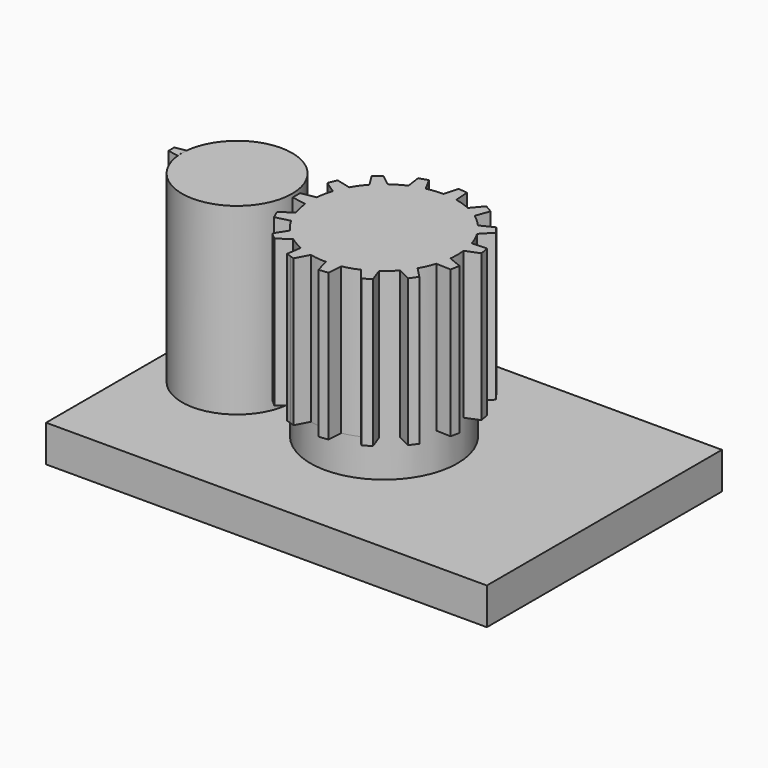
from build123d import *

# Parameters (mm, degrees)
F0_W          = 60
F0_H          = 40
F1_DEPTH      = 5
F2_R          = 7.5
F3_DEPTH      = 25
F3_DEPTH_BACK = 2
F5_R          = 10
F6_DEPTH      = 25
F6_DEPTH_BACK = 2
F9_DEPTH      = 20
F12_DEPTH     = 20


with BuildPart() as f1:
    # F0 (on Top) → F1 (new body)
    with BuildSketch(Plane.XY):
        Rectangle(F0_W, F0_H)
    extrude(amount=F1_DEPTH)


with BuildPart() as f3:
    # F2 (on face) → F3 (new body, two sides)
    with BuildSketch(Plane.XY.offset(5)) as f3_sk:
        with Locations((-20, 0)):
            Circle(F2_R)
    extrude(amount=F3_DEPTH)
    extrude(f3_sk.sketch, amount=-F3_DEPTH_BACK)


with BuildPart() as f1_1:
    add(f1.part)

    # F4: cut F3
    add(f3.part, mode=Mode.SUBTRACT)


with BuildPart() as f6:
    # F5 (on face) → F6 (new body, two sides)
    with BuildSketch(Plane.XY.offset(5)) as f6_sk:
        Circle(F5_R)
    extrude(amount=F6_DEPTH)
    extrude(f6_sk.sketch, amount=-F6_DEPTH_BACK)

    # F11 (on face) → F12 (join)
    with BuildSketch(Plane.XY.offset(30)):
        with BuildLine():
            ThreePointArc((9.937283, -1.118217), (9.984308, -0.559987), (10, 0))
            ThreePointArc((10, 0), (9.984308, 0.559987), (9.937283, 1.118217))
            ThreePointArc((9.937283, 1.118217), (9.781476, 2.079117), (9.532979, 3.020315))
            ThreePointArc((9.532979, 3.020315), (9.135455, 4.067366), (8.62334, 5.063399))
            ThreePointArc((8.62334, 5.063399), (8.09017, 5.877853), (7.480337, 6.636607))
            ThreePointArc((7.480337, 6.636607), (6.691306, 7.431448), (5.818343, 8.133073))
            ThreePointArc((5.818343, 8.133073), (5, 8.660254), (4.134277, 9.10537))
            ThreePointArc((4.134277, 9.10537), (3.09017, 9.510565), (2.007302, 9.796466))
            ThreePointArc((2.007302, 9.796466), (1.045285, 9.945219), (0.073362, 9.999731))
            ThreePointArc((0.073362, 9.999731), (-1.045285, 9.945219), (-2.15082, 9.76596))
            ThreePointArc((-2.15082, 9.76596), (-3.09017, 9.510565), (-4.000237, 9.165048))
            ThreePointArc((-4.000237, 9.165048), (-5, 8.660254), (-5.937045, 8.046831))
            ThreePointArc((-5.937045, 8.046831), (-6.691306, 7.431448), (-7.382159, 6.745645))
            ThreePointArc((-7.382159, 6.745645), (-8.09017, 5.877853), (-8.696702, 4.936332))
            ThreePointArc((-8.696702, 4.936332), (-9.135455, 4.067366), (-9.487639, 3.159858))
            ThreePointArc((-9.487639, 3.159858), (-9.781476, 2.079117), (-9.95262, 0.972296))
            ThreePointArc((-9.95262, 0.972296), (-10, 0), (-9.95262, -0.972296))
            ThreePointArc((-9.95262, -0.972296), (-9.781476, -2.079117), (-9.487639, -3.159858))
            ThreePointArc((-9.487639, -3.159858), (-9.135455, -4.067366), (-8.696702, -4.936332))
            ThreePointArc((-8.696702, -4.936332), (-8.09017, -5.877853), (-7.382159, -6.745645))
            ThreePointArc((-7.382159, -6.745645), (-6.691306, -7.431448), (-5.937045, -8.046831))
            ThreePointArc((-5.937045, -8.046831), (-5, -8.660254), (-4.000237, -9.165048))
            ThreePointArc((-4.000237, -9.165048), (-3.09017, -9.510565), (-2.15082, -9.76596))
            ThreePointArc((-2.15082, -9.76596), (-1.045285, -9.945219), (0.073362, -9.999731))
            ThreePointArc((0.073362, -9.999731), (1.045285, -9.945219), (2.007302, -9.796466))
            ThreePointArc((2.007302, -9.796466), (3.09017, -9.510565), (4.134277, -9.10537))
            ThreePointArc((4.134277, -9.10537), (5, -8.660254), (5.818343, -8.133073))
            ThreePointArc((5.818343, -8.133073), (6.691306, -7.431448), (7.480337, -6.636607))
            ThreePointArc((7.480337, -6.636607), (8.09017, -5.877853), (8.62334, -5.063399))
            ThreePointArc((8.62334, -5.063399), (9.135455, -4.067366), (9.532979, -3.020315))
            ThreePointArc((9.532979, -3.020315), (9.781476, -2.079117), (9.937283, -1.118217))
        make_face()
        with BuildLine():
            ThreePointArc((9.532979, 3.020315), (9.781476, 2.079117), (9.937283, 1.118217))
            Line((9.937283, 1.118217), (11.791651, 1.86743))
            Line((11.791651, 1.86743), (11.661706, 2.478772))
            Line((11.661706, 2.478772), (11.531761, 3.090114))
            Line((11.531761, 3.090114), (9.532979, 3.020315))
        make_face()
        with BuildLine():
            Line((11.791651, -1.86743), (9.937283, -1.118217))
            ThreePointArc((9.937283, -1.118217), (9.781476, -2.079117), (9.532979, -3.020315))
            Line((9.532979, -3.020315), (11.531761, -3.090114))
            Line((11.531761, -3.090114), (11.661706, -2.478772))
            Line((11.661706, -2.478772), (11.791651, -1.86743))
        make_face()
        with BuildLine():
            ThreePointArc((7.480337, 6.636607), (8.09017, 5.877853), (8.62334, 5.063399))
            Line((8.62334, 5.063399), (10.012657, 6.502078))
            Line((10.012657, 6.502078), (9.645291, 7.007714))
            Line((9.645291, 7.007714), (9.277925, 7.51335))
            Line((9.277925, 7.51335), (7.480337, 6.636607))
        make_face()
        with BuildLine():
            Line((10.012657, -6.502078), (8.62334, -5.063399))
            ThreePointArc((8.62334, -5.063399), (8.09017, -5.877853), (7.480337, -6.636607))
            Line((7.480337, -6.636607), (9.277925, -7.51335))
            Line((9.277925, -7.51335), (9.645291, -7.007714))
            Line((9.645291, -7.007714), (10.012657, -6.502078))
        make_face()
        with BuildLine():
            ThreePointArc((4.134277, 9.10537), (5, 8.660254), (5.818343, 8.133073))
            Line((5.818343, 8.133073), (6.502384, 10.012459))
            Line((6.502384, 10.012459), (5.961118, 10.324959))
            Line((5.961118, 10.324959), (5.419852, 10.637459))
            Line((5.419852, 10.637459), (4.134277, 9.10537))
        make_face()
        with BuildLine():
            Line((6.502384, -10.012459), (5.818343, -8.133073))
            ThreePointArc((5.818343, -8.133073), (5, -8.660254), (4.134277, -9.10537))
            Line((4.134277, -9.10537), (5.419852, -10.637459))
            Line((5.419852, -10.637459), (5.961118, -10.324959))
            Line((5.961118, -10.324959), (6.502384, -10.012459))
        make_face()
        with BuildLine():
            ThreePointArc((0.073362, 9.999731), (1.045285, 9.945219), (2.007302, 9.796466))
            Line((2.007302, 9.796466), (1.867789, 11.791594))
            Line((1.867789, 11.791594), (1.246213, 11.856924))
            Line((1.246213, 11.856924), (0.624637, 11.922254))
            Line((0.624637, 11.922254), (0.073362, 9.999731))
        make_face()
        with BuildLine():
            Line((1.867789, -11.791594), (2.007302, -9.796466))
            ThreePointArc((2.007302, -9.796466), (1.045285, -9.945219), (0.073362, -9.999731))
            Line((0.073362, -9.999731), (0.624637, -11.922254))
            Line((0.624637, -11.922254), (1.246213, -11.856924))
            Line((1.246213, -11.856924), (1.867789, -11.791594))
        make_face()
        with BuildLine():
            ThreePointArc((-4.000237, 9.165048), (-3.09017, 9.510565), (-2.15082, 9.76596))
            Line((-2.15082, 9.76596), (-3.089763, 11.531855))
            Line((-3.089763, 11.531855), (-3.684173, 11.33872))
            Line((-3.684173, 11.33872), (-4.278584, 11.145584))
            Line((-4.278584, 11.145584), (-4.000237, 9.165048))
        make_face()
        with BuildLine():
            Line((-3.089763, -11.531855), (-2.15082, -9.76596))
            ThreePointArc((-2.15082, -9.76596), (-3.09017, -9.510565), (-4.000237, -9.165048))
            Line((-4.000237, -9.165048), (-4.278584, -11.145584))
            Line((-4.278584, -11.145584), (-3.684173, -11.33872))
            Line((-3.684173, -11.33872), (-3.089763, -11.531855))
        make_face()
        with BuildLine():
            ThreePointArc((-7.382159, 6.745645), (-6.691306, 7.431448), (-5.937045, 8.046831))
            Line((-5.937045, 8.046831), (-7.513067, 9.278154))
            Line((-7.513067, 9.278154), (-7.977533, 8.859947))
            Line((-7.977533, 8.859947), (-8.441998, 8.441741))
            Line((-8.441998, 8.441741), (-7.382159, 6.745645))
        make_face()
        with BuildLine():
            Line((-7.513067, -9.278154), (-5.937045, -8.046831))
            ThreePointArc((-5.937045, -8.046831), (-6.691306, -7.431448), (-7.382159, -6.745645))
            Line((-7.382159, -6.745645), (-8.441998, -8.441741))
            Line((-8.441998, -8.441741), (-7.977533, -8.859947))
            Line((-7.977533, -8.859947), (-7.513067, -9.278154))
        make_face()
        with BuildLine():
            ThreePointArc((-9.487639, 3.159858), (-9.135455, 4.067366), (-8.696702, 4.936332))
            Line((-8.696702, 4.936332), (-10.637293, 5.420176))
            Line((-10.637293, 5.420176), (-10.891504, 4.84921))
            Line((-10.891504, 4.84921), (-11.145714, 4.278244))
            Line((-11.145714, 4.278244), (-9.487639, 3.159858))
        make_face()
        with BuildLine():
            Line((-10.637293, -5.420176), (-8.696702, -4.936332))
            ThreePointArc((-8.696702, -4.936332), (-9.135455, -4.067366), (-9.487639, -3.159858))
            Line((-9.487639, -3.159858), (-11.145714, -4.278244))
            Line((-11.145714, -4.278244), (-10.891504, -4.84921))
            Line((-10.891504, -4.84921), (-10.637293, -5.420176))
        make_face()
        with BuildLine():
            ThreePointArc((-9.95262, -0.972296), (-10, 0), (-9.95262, 0.972296))
            Line((-9.95262, 0.972296), (-11.922235, 0.625))
            Line((-11.922235, 0.625), (-11.922235, 0))
            Line((-11.922235, 0), (-11.922235, -0.625))
            Line((-11.922235, -0.625), (-9.95262, -0.972296))
        make_face()
    extrude(amount=-F12_DEPTH)


with BuildPart() as f1_2:
    add(f1_1.part)

    # F7: cut F6
    add(f6.part, mode=Mode.SUBTRACT)


with BuildPart() as f9:
    # F8 (on face) → F9 (new body)
    with BuildSketch(Plane.XY.offset(30)):
        with BuildLine():
            ThreePointArc((-27.461346, -0.760472), (-27.5, 0), (-27.461346, 0.760472))
            Line((-27.461346, 0.760472), (-28.938557, 0.5))
            Line((-28.938557, 0.5), (-28.938557, 0))
            Line((-28.938557, 0), (-28.938557, -0.5))
            Line((-28.938557, -0.5), (-27.461346, -0.760472))
        make_face()
        with BuildLine():
            ThreePointArc((-12.5, 0), (-19.619273, 7.49033), (-27.461346, 0.760472))
            ThreePointArc((-27.461346, 0.760472), (-27.5, 0), (-27.461346, -0.760472))
            ThreePointArc((-27.461346, -0.760472), (-19.619273, -7.49033), (-12.5, 0))
        make_face()
    extrude(amount=-F9_DEPTH)

    # F10: cut F3
    add(f3.part, mode=Mode.SUBTRACT)


solid = Compound([f3.part, f6.part, f1_2.part, f9.part])
